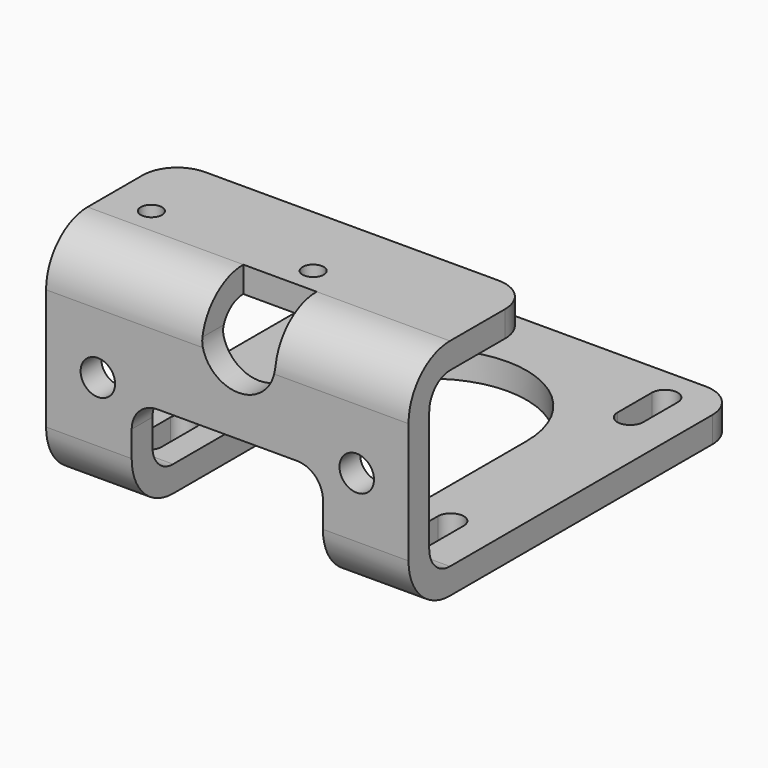
from build123d import *

# Parameters (mm, degrees)
PAD_DEPTH       = 3
SKETCH001_R     = 2
PAD001_DEPTH    = 3
SKETCH002_W     = 42
SKETCH002_H     = 18
PAD002_DEPTH    = 3
POCKET_DEPTH    = 6
SKETCH004_R     = 1.23
POCKET001_DEPTH = 5
FILLET_R        = 4
FILLET001_R     = 6
FILLET002_R     = 3
FILLET003_R     = 3


with BuildPart() as part:
    # Sketch → Pad (new body)
    with BuildSketch(Plane.XY):
        with BuildLine():
            Line((21, 0), (21, 48))
            Line((21, 48), (-21, 48))
            Line((-21, 48), (-21, 0))
            Line((-21, 0), (-11.08, 0))
            Line((-11.08, 0), (-11.08, 29.5))
            ThreePointArc((11.08, 29.5), (0, 40.58), (-11.08, 29.5))
            Line((11.08, 0), (11.08, 29.5))
            Line((21, 0), (11.08, 0))
        make_face()
        with BuildLine():
            Line((14, 13), (14, 8))
            ThreePointArc((14, 8), (15.5, 6.5), (17, 8))
            Line((17, 13), (17, 8))
            ThreePointArc((17, 13), (15.5, 14.5), (14, 13))
        make_face(mode=Mode.SUBTRACT)
        with BuildLine():
            Line((-14, 8), (-14, 13))
            ThreePointArc((-14, 13), (-15.5, 14.5), (-17, 13))
            Line((-17, 8), (-17, 13))
            ThreePointArc((-17, 8), (-15.5, 6.5), (-14, 8))
        make_face(mode=Mode.SUBTRACT)
        with BuildLine():
            Line((-17, 43.999998), (-17, 39))
            ThreePointArc((-17, 39), (-15.500001, 37.5), (-14, 38.999999))
            Line((-14, 43.999999), (-14, 38.999999))
            ThreePointArc((-14, 43.999999), (-15.500001, 45.499998), (-17, 43.999998))
        make_face(mode=Mode.SUBTRACT)
        with BuildLine():
            Line((17, 43.999998), (17, 38.999995))
            ThreePointArc((14, 38.999996), (15.499999, 37.499995), (17, 38.999995))
            Line((14, 43.999997), (14, 38.999996))
            ThreePointArc((17, 43.999998), (15.499999, 45.499998), (14, 43.999997))
        make_face(mode=Mode.SUBTRACT)
    extrude(amount=PAD_DEPTH)

    # Sketch001 → Pad001 (new body)
    with BuildSketch(Plane.XZ):
        Polygon((-11.08, 0), (-11.08, 12), (11.08, 12), (11.08, 0), (21, 0), (21, 26), (-21, 26), (-21, 0), align=None)
        with Locations((-15, 13)):
            Circle(SKETCH001_R, mode=Mode.SUBTRACT)
        with Locations((15, 13)):
            Circle(SKETCH001_R, mode=Mode.SUBTRACT)
    extrude(amount=-PAD001_DEPTH)

    # Sketch002 → Pad002 (new body)
    with BuildSketch(Plane.XY.offset(26)):
        with Locations((0, 9)):
            Rectangle(SKETCH002_W, SKETCH002_H)
    extrude(amount=-PAD002_DEPTH)

    # Sketch003 → Pocket (cut)
    with BuildSketch(Plane.XZ):
        with BuildLine():
            Line((-2.95, 26), (-2.95, 21))
            ThreePointArc((-2.95, 21), (1.300001, 16.750001), (5.55, 21.000001))
            Line((5.55, 26), (5.55, 21.000001))
            Line((-2.95, 26), (5.55, 26))
        make_face()
    extrude(amount=-POCKET_DEPTH, mode=Mode.SUBTRACT)

    # Sketch004 → Pocket001 (cut)
    with BuildSketch(Plane.XY.offset(26)):
        with Locations((-16, 9)):
            Circle(SKETCH004_R)
        with Locations((2.75, 9)):
            Circle(SKETCH004_R)
    extrude(amount=-POCKET001_DEPTH, mode=Mode.SUBTRACT)

    # Fillet
    fillet_edges = [part.edges().sort_by_distance(p)[0] for p in [
        (-21, 18, 24.5),
        (21, 18, 24.5),
        (21, 48, 1.5),
        (-21, 48, 1.5),
    ]]
    fillet(fillet_edges, radius=FILLET_R)

    # Fillet001
    fillet001_edges = [part.edges().sort_by_distance(p)[0] for p in [
        (16.04, 0, 0),
        (-16.04, 0, 0),
        (-11.975, 0, 26),
        (13.275, 0, 26),
    ]]
    fillet(fillet001_edges, radius=FILLET001_R)

    # Fillet002
    fillet002_edges = [part.edges().sort_by_distance(p)[0] for p in [
        (16.04, 3, 3),
        (-16.04, 3, 3),
        (-11.975, 3, 23),
        (13.275, 3, 23),
    ]]
    fillet(fillet002_edges, radius=FILLET002_R)

    # Fillet003
    fillet003_edges = [part.edges().sort_by_distance(p)[0] for p in [
        (11.08, 1.5, 12),
        (-11.08, 1.5, 12),
    ]]
    fillet(fillet003_edges, radius=FILLET003_R)


solid = part.part
